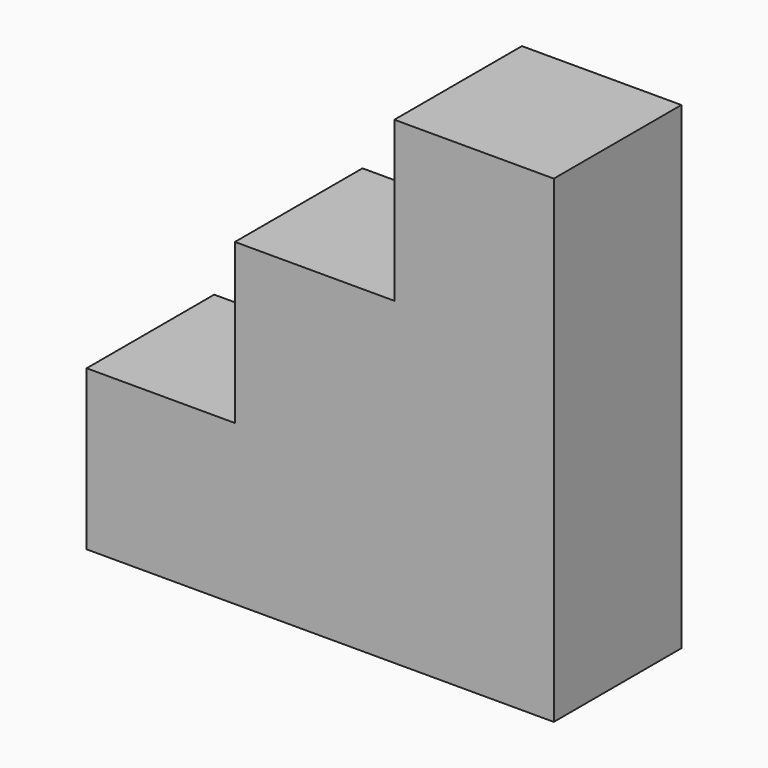
from build123d import *

# Parameters (mm, degrees)
F0_W     = 25.4
F0_H     = 25.4
F0_W_2   = 25.3999982615
F0_W_3   = 23.6219968708
F1_DEPTH = 25.4


with BuildPart() as f1:
    # F0 (on Front) → F1 (new body)
    with BuildSketch(Plane.XZ):
        with Locations((12.7, 63.5)):
            Rectangle(F0_W, F0_H)
        with Locations((-12.6999991308, 38.1)):
            Rectangle(F0_W_2, F0_H)
        with Locations((12.7, 38.1)):
            Rectangle(F0_W, F0_H)
        with Locations((12.7, 12.7)):
            Rectangle(F0_W, F0_H)
        with Locations((-12.6999991308, 12.7)):
            Rectangle(F0_W_2, F0_H)
        with Locations((-37.2109966969, 12.7)):
            Rectangle(F0_W_3, F0_H)
    extrude(amount=F1_DEPTH)


solid = f1.part
